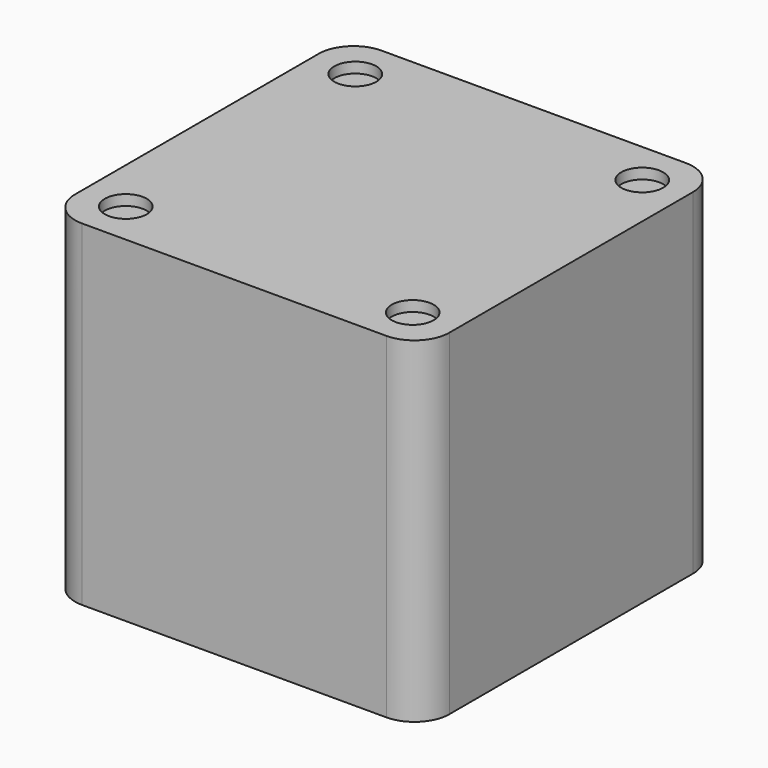
from build123d import *

# Parameters (mm, degrees)
F1_DEPTH = 96
F2_R     = 7.5
F3_DEPTH = 30
F4_R     = 6
F5_DEPTH = 3
F6_R     = 6
F7_DEPTH = 3


with BuildPart() as f1:
    # F0 (on Top) → F1 (new body)
    with BuildSketch(Plane.XY):
        with BuildLine():
            ThreePointArc((0, -10), (-2.928932, -2.928932), (-10, 0))
            Line((-10, 0), (-97, 0))
            ThreePointArc((-97, 0), (-104.071068, -2.928932), (-107, -10))
            Line((-107, -10), (-107, -97))
            ThreePointArc((-107, -97), (-104.071068, -104.071068), (-97, -107))
            Line((-97, -107), (-10, -107))
            ThreePointArc((-10, -107), (-2.928932, -104.071068), (0, -97))
            Line((0, -97), (0, -10))
        make_face()
    extrude(amount=F1_DEPTH)

    # F2 (on face) → F3 (join)
    with BuildSketch(Plane(origin=(0, 0, 0), x_dir=(1, 0, 0), z_dir=(0, 0, -1))):
        with Locations((-53.5, 53.5)):
            Circle(F2_R)
    extrude(amount=F3_DEPTH)

    # F4 (on face) → F5 (cut)
    with BuildSketch(Plane.XY.offset(96)):
        with Locations((-94.5, -94.5)):
            Circle(F4_R)
        with Locations((-94.5, -12.5)):
            Circle(F4_R)
        with Locations((-12.5, -94.5)):
            Circle(F4_R)
        with Locations((-12.5, -12.5)):
            Circle(F4_R)
    extrude(amount=-F5_DEPTH, mode=Mode.SUBTRACT)

    # F6 (on face) → F7 (cut)
    with BuildSketch(Plane(origin=(0, 0, 0), x_dir=(1, 0, 0), z_dir=(0, 0, -1))):
        with Locations((-10, 97)):
            Circle(F6_R)
        with Locations((-10, 10)):
            Circle(F6_R)
        with Locations((-97, 97)):
            Circle(F6_R)
        with Locations((-97, 10)):
            Circle(F6_R)
    extrude(amount=-F7_DEPTH, mode=Mode.SUBTRACT)


solid = f1.part
